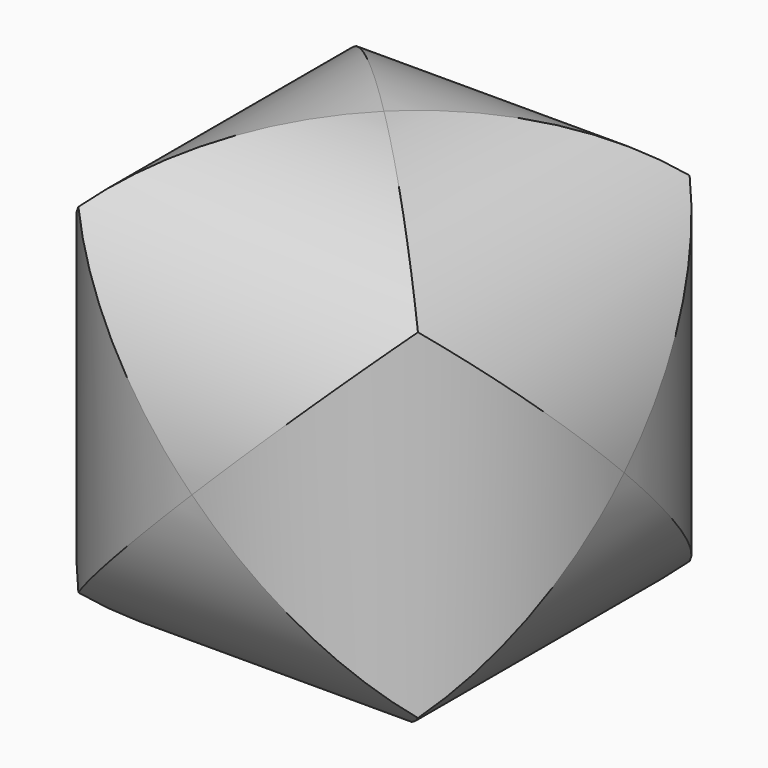
from build123d import *

# Parameters (mm, degrees)
F0_R     = 40
F1_DEPTH = 100
F2_R     = 40
F3_DEPTH = 100
F4_R     = 40
F5_DEPTH = 100


with BuildPart() as f1:
    # F0 (on Front) → F1 (new body, symmetric)
    with BuildSketch(Plane.XZ):
        Circle(F0_R)
    extrude(amount=F1_DEPTH, both=True)

    # F2 (on Top) → F3 (intersect, symmetric)
    with BuildSketch(Plane.XY):
        Circle(F2_R)
    extrude(amount=F3_DEPTH, both=True, mode=Mode.INTERSECT)

    # F4 (on Right) → F5 (intersect, symmetric)
    with BuildSketch(Plane.YZ):
        Circle(F4_R)
    extrude(amount=F5_DEPTH, both=True, mode=Mode.INTERSECT)


solid = f1.part
